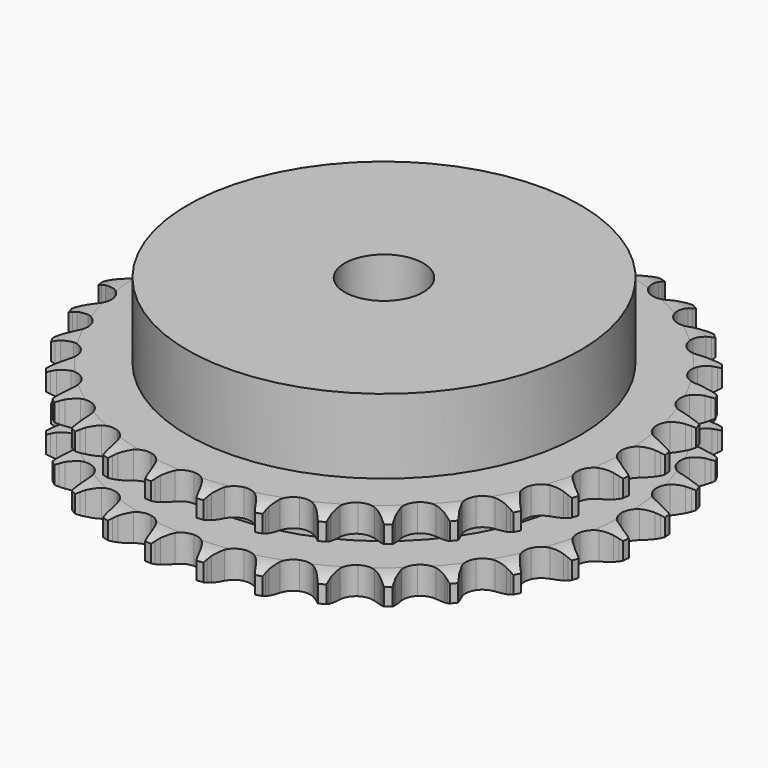
from build123d import *

# Parameters (mm, degrees)
PAD_DEPTH         = 21
SKETCH001_R       = 50
PAD001_DEPTH      = 40
SKETCH002_R       = 10
POCKET_DEPTH      = 0.001
POCKET_DEPTH_BACK = 40.001


with BuildPart() as part:
    # Sprocket → Pad (new body)
    with BuildSketch(Plane.XY):
        with BuildLine():
            ThreePointArc((-6.722983, 68.259588), (-5.947068, 67.220529), (-5.378585, 66.054975))
            Line((-5.378585, 66.054975), (-4.96346, 64.952015))
            ThreePointArc((-4.96346, 64.952015), (-4.305248, 63.520135), (-3.451269, 62.195655))
            ThreePointArc((-3.451269, 62.195655), (-1.929275, 60.925607), (0, 60.470212))
            ThreePointArc((0, 60.470212), (1.929275, 60.925607), (3.451269, 62.195655))
            ThreePointArc((3.451269, 62.195655), (4.305248, 63.520135), (4.96346, 64.952015))
            Line((4.96346, 64.952015), (5.378585, 66.054975))
            ThreePointArc((5.378585, 66.054975), (5.947068, 67.220529), (6.722983, 68.259588))
            ThreePointArc((6.722983, 68.259588), (7.281278, 67.089121), (7.611449, 65.835057))
            Line((7.611449, 65.835057), (7.803421, 64.672304))
            ThreePointArc((7.803421, 64.672304), (8.16964, 63.139526), (8.748816, 61.673892))
            ThreePointArc((8.748816, 61.673892), (9.993791, 60.131322), (11.797153, 59.308294))
            ThreePointArc((11.797153, 59.308294), (13.778201, 59.378556), (15.518725, 60.327274))
            Line((15.518725, 60.327274), (17.539599, 62.735657))
            ThreePointArc((17.539599, 62.735657), (17.837497, 63.244296), (18.161923, 63.736437))
            ThreePointArc((18.161923, 63.736437), (18.946871, 64.76869), (19.910587, 65.63641))
            ThreePointArc((19.910587, 65.63641), (20.229809, 64.379515), (20.30898, 63.085135))
            Line((20.30898, 63.085135), (20.270421, 61.907272))
            ThreePointArc((20.270421, 61.907272), (20.330573, 60.3325), (20.61269, 58.782036))
            ThreePointArc((20.61269, 58.782036), (21.532803, 57.026223), (23.140948, 55.867192))
            ThreePointArc((23.140948, 55.867192), (25.097638, 55.54962), (26.989804, 56.140549))
            Line((26.989804, 56.140549), (29.4417, 58.108403))
            ThreePointArc((29.4417, 58.108403), (29.833104, 58.549151), (30.247309, 58.968544))
            ThreePointArc((30.247309, 58.968544), (31.218557, 59.827827), (32.333039, 60.490862))
            ThreePointArc((32.333039, 60.490862), (32.400919, 59.195841), (32.226048, 57.910886))
            Line((32.226048, 57.910886), (31.95844, 56.763178))
            ThreePointArc((31.95844, 56.763178), (31.710214, 55.206929), (31.684429, 53.63122))
            ThreePointArc((31.684429, 53.63122), (32.24432, 51.729639), (33.59545, 50.279144))
            ThreePointArc((33.59545, 50.279144), (35.452588, 49.585943), (37.42368, 49.796375))
            Line((37.42368, 49.796375), (40.212373, 51.248076))
            ThreePointArc((40.212373, 51.248076), (40.682242, 51.603996), (41.170308, 51.934523))
            ThreePointArc((41.170308, 51.934523), (42.290531, 52.587813), (43.512951, 53.020684))
            ThreePointArc((43.512951, 53.020684), (43.32688, 51.737304), (42.904687, 50.511155))
            Line((42.904687, 50.511155), (42.418314, 49.437707))
            ThreePointArc((42.418314, 49.437707), (41.871248, 47.959788), (41.538553, 46.419386))
            ThreePointArc((41.538553, 46.419386), (41.716706, 44.445114), (42.758897, 42.758897))
            ThreePointArc((42.758897, 42.758897), (44.445114, 41.716706), (46.419386, 41.538553))
            Line((46.419386, 41.538553), (49.437707, 42.418314))
            ThreePointArc((49.437707, 42.418314), (49.967985, 42.675728), (50.511155, 42.904687))
            ThreePointArc((50.511155, 42.904687), (51.737304, 43.32688), (53.020684, 43.512951))
            ThreePointArc((53.020684, 43.512951), (52.587813, 42.290531), (51.934523, 41.170308))
            Line((51.934523, 41.170308), (51.248076, 40.212373))
            ThreePointArc((51.248076, 40.212373), (50.423195, 38.869579), (49.796375, 37.42368))
            ThreePointArc((49.796375, 37.42368), (49.585943, 35.452588), (50.279144, 33.59545))
            ThreePointArc((50.279144, 33.59545), (51.729639, 32.24432), (53.63122, 31.684429))
            Line((53.63122, 31.684429), (56.763178, 31.95844))
            ThreePointArc((56.763178, 31.95844), (57.333485, 32.107455), (57.910886, 32.226048))
            ThreePointArc((57.910886, 32.226048), (59.195841, 32.400919), (60.490862, 32.333039))
            ThreePointArc((60.490862, 32.333039), (59.827827, 31.218557), (58.968544, 30.247309))
            Line((58.968544, 30.247309), (58.108403, 29.4417))
            ThreePointArc((58.108403, 29.4417), (57.037406, 28.285633), (56.140549, 26.989804))
            ThreePointArc((56.140549, 26.989804), (55.54962, 25.097638), (55.867192, 23.140948))
            ThreePointArc((55.867192, 23.140948), (57.026223, 21.532803), (58.782036, 20.61269))
            Line((58.782036, 20.61269), (61.907272, 20.270421))
            ThreePointArc((61.907272, 20.270421), (62.495692, 20.305312), (63.085135, 20.30898))
            ThreePointArc((63.085135, 20.30898), (64.379515, 20.229809), (65.63641, 19.910587))
            ThreePointArc((65.63641, 19.910587), (64.76869, 18.946871), (63.736437, 18.161923))
            Line((63.736437, 18.161923), (62.735657, 17.539599))
            ThreePointArc((62.735657, 17.539599), (61.459701, 16.614687), (60.327274, 15.518725))
            ThreePointArc((60.327274, 15.518725), (59.378556, 13.778201), (59.308294, 11.797153))
            ThreePointArc((59.308294, 11.797153), (60.131322, 9.993791), (61.673892, 8.748816))
            Line((61.673892, 8.748816), (64.672304, 7.803421))
            ThreePointArc((64.672304, 7.803421), (65.256225, 7.722846), (65.835057, 7.611449))
            ThreePointArc((65.835057, 7.611449), (67.089121, 7.281278), (68.259588, 6.722983))
            ThreePointArc((68.259588, 6.722983), (67.220529, 5.947068), (66.054975, 5.378585))
            Line((66.054975, 5.378585), (64.952015, 4.96346))
            ThreePointArc((64.952015, 4.96346), (63.520135, 4.305248), (62.195655, 3.451269))
            ThreePointArc((62.195655, 3.451269), (60.925607, 1.929275), (60.470212, 0))
            ThreePointArc((60.470212, 0), (60.925607, -1.929275), (62.195655, -3.451269))
            Line((62.195655, -3.451269), (64.952015, -4.96346))
            ThreePointArc((64.952015, -4.96346), (65.508997, -5.156404), (66.054975, -5.378585))
            ThreePointArc((66.054975, -5.378585), (67.220529, -5.947068), (68.259588, -6.722983))
            ThreePointArc((68.259588, -6.722983), (67.089121, -7.281278), (65.835057, -7.611449))
            Line((65.835057, -7.611449), (64.672304, -7.803421))
            ThreePointArc((64.672304, -7.803421), (63.139526, -8.16964), (61.673892, -8.748816))
            ThreePointArc((61.673892, -8.748816), (60.131322, -9.993791), (59.308294, -11.797153))
            ThreePointArc((59.308294, -11.797153), (59.378556, -13.778201), (60.327274, -15.518725))
            Line((60.327274, -15.518725), (62.735657, -17.539599))
            ThreePointArc((62.735657, -17.539599), (63.244296, -17.837497), (63.736437, -18.161923))
            ThreePointArc((63.736437, -18.161923), (64.76869, -18.946871), (65.63641, -19.910587))
            ThreePointArc((65.63641, -19.910587), (64.379515, -20.229809), (63.085135, -20.30898))
            Line((63.085135, -20.30898), (61.907272, -20.270421))
            ThreePointArc((61.907272, -20.270421), (60.3325, -20.330573), (58.782036, -20.61269))
            ThreePointArc((58.782036, -20.61269), (57.026223, -21.532803), (55.867192, -23.140948))
            ThreePointArc((55.867192, -23.140948), (55.54962, -25.097638), (56.140549, -26.989804))
            Line((56.140549, -26.989804), (58.108403, -29.4417))
            ThreePointArc((58.108403, -29.4417), (58.549151, -29.833104), (58.968544, -30.247309))
            ThreePointArc((58.968544, -30.247309), (59.827827, -31.218557), (60.490862, -32.333039))
            ThreePointArc((60.490862, -32.333039), (59.195841, -32.400919), (57.910886, -32.226048))
            Line((57.910886, -32.226048), (56.763178, -31.95844))
            ThreePointArc((56.763178, -31.95844), (55.206929, -31.710214), (53.63122, -31.684429))
            ThreePointArc((53.63122, -31.684429), (51.729639, -32.24432), (50.279144, -33.59545))
            ThreePointArc((50.279144, -33.59545), (49.585943, -35.452588), (49.796375, -37.42368))
            Line((49.796375, -37.42368), (51.248076, -40.212373))
            ThreePointArc((51.248076, -40.212373), (51.603996, -40.682242), (51.934523, -41.170308))
            ThreePointArc((51.934523, -41.170308), (52.587813, -42.290531), (53.020684, -43.512951))
            ThreePointArc((53.020684, -43.512951), (51.737304, -43.32688), (50.511155, -42.904687))
            Line((50.511155, -42.904687), (49.437707, -42.418314))
            ThreePointArc((49.437707, -42.418314), (47.959788, -41.871248), (46.419386, -41.538553))
            ThreePointArc((46.419386, -41.538553), (44.445114, -41.716706), (42.758897, -42.758897))
            ThreePointArc((42.758897, -42.758897), (41.716706, -44.445114), (41.538553, -46.419386))
            Line((41.538553, -46.419386), (42.418314, -49.437707))
            ThreePointArc((42.418314, -49.437707), (42.675728, -49.967985), (42.904687, -50.511155))
            ThreePointArc((42.904687, -50.511155), (43.32688, -51.737304), (43.512951, -53.020684))
            ThreePointArc((43.512951, -53.020684), (42.290531, -52.587813), (41.170308, -51.934523))
            Line((41.170308, -51.934523), (40.212373, -51.248076))
            ThreePointArc((40.212373, -51.248076), (38.869579, -50.423195), (37.42368, -49.796375))
            ThreePointArc((37.42368, -49.796375), (35.452588, -49.585943), (33.59545, -50.279144))
            ThreePointArc((33.59545, -50.279144), (32.24432, -51.729639), (31.684429, -53.63122))
            Line((31.684429, -53.63122), (31.95844, -56.763178))
            ThreePointArc((31.95844, -56.763178), (32.107455, -57.333485), (32.226048, -57.910886))
            ThreePointArc((32.226048, -57.910886), (32.400919, -59.195841), (32.333039, -60.490862))
            ThreePointArc((32.333039, -60.490862), (31.218557, -59.827827), (30.247309, -58.968544))
            Line((30.247309, -58.968544), (29.4417, -58.108403))
            ThreePointArc((29.4417, -58.108403), (28.285633, -57.037406), (26.989804, -56.140549))
            ThreePointArc((26.989804, -56.140549), (25.097638, -55.54962), (23.140948, -55.867192))
            ThreePointArc((23.140948, -55.867192), (21.532803, -57.026223), (20.61269, -58.782036))
            Line((20.61269, -58.782036), (20.270421, -61.907272))
            ThreePointArc((20.270421, -61.907272), (20.305312, -62.495692), (20.30898, -63.085135))
            ThreePointArc((20.30898, -63.085135), (20.229809, -64.379515), (19.910587, -65.63641))
            ThreePointArc((19.910587, -65.63641), (18.946871, -64.76869), (18.161923, -63.736437))
            Line((18.161923, -63.736437), (17.539599, -62.735657))
            ThreePointArc((17.539599, -62.735657), (16.614687, -61.459701), (15.518725, -60.327274))
            ThreePointArc((15.518725, -60.327274), (13.778201, -59.378556), (11.797153, -59.308294))
            ThreePointArc((11.797153, -59.308294), (9.993791, -60.131322), (8.748816, -61.673892))
            Line((8.748816, -61.673892), (7.803421, -64.672304))
            ThreePointArc((7.803421, -64.672304), (7.722846, -65.256225), (7.611449, -65.835057))
            ThreePointArc((7.611449, -65.835057), (7.281278, -67.089121), (6.722983, -68.259588))
            ThreePointArc((6.722983, -68.259588), (5.947068, -67.220529), (5.378585, -66.054975))
            Line((5.378585, -66.054975), (4.96346, -64.952015))
            ThreePointArc((4.96346, -64.952015), (4.305248, -63.520135), (3.451269, -62.195655))
            ThreePointArc((3.451269, -62.195655), (1.929275, -60.925607), (0, -60.470212))
            ThreePointArc((0, -60.470212), (-1.929275, -60.925607), (-3.451269, -62.195655))
            Line((-3.451269, -62.195655), (-4.96346, -64.952015))
            ThreePointArc((-4.96346, -64.952015), (-5.156404, -65.508997), (-5.378585, -66.054975))
            ThreePointArc((-5.378585, -66.054975), (-5.947068, -67.220529), (-6.722983, -68.259588))
            ThreePointArc((-6.722983, -68.259588), (-7.281278, -67.089121), (-7.611449, -65.835057))
            Line((-7.611449, -65.835057), (-7.803421, -64.672304))
            ThreePointArc((-7.803421, -64.672304), (-8.16964, -63.139526), (-8.748816, -61.673892))
            ThreePointArc((-8.748816, -61.673892), (-9.993791, -60.131322), (-11.797153, -59.308294))
            ThreePointArc((-11.797153, -59.308294), (-13.778201, -59.378556), (-15.518725, -60.327274))
            Line((-15.518725, -60.327274), (-17.539599, -62.735657))
            ThreePointArc((-17.539599, -62.735657), (-17.837497, -63.244296), (-18.161923, -63.736437))
            ThreePointArc((-18.161923, -63.736437), (-18.946871, -64.76869), (-19.910587, -65.63641))
            ThreePointArc((-19.910587, -65.63641), (-20.229809, -64.379515), (-20.30898, -63.085135))
            Line((-20.30898, -63.085135), (-20.270421, -61.907272))
            ThreePointArc((-20.270421, -61.907272), (-20.330573, -60.3325), (-20.61269, -58.782036))
            ThreePointArc((-20.61269, -58.782036), (-21.532803, -57.026223), (-23.140948, -55.867192))
            ThreePointArc((-23.140948, -55.867192), (-25.097638, -55.54962), (-26.989804, -56.140549))
            Line((-26.989804, -56.140549), (-29.4417, -58.108403))
            ThreePointArc((-29.4417, -58.108403), (-29.833104, -58.549151), (-30.247309, -58.968544))
            ThreePointArc((-30.247309, -58.968544), (-31.218557, -59.827827), (-32.333039, -60.490862))
            ThreePointArc((-32.333039, -60.490862), (-32.400919, -59.195841), (-32.226048, -57.910886))
            Line((-32.226048, -57.910886), (-31.95844, -56.763178))
            ThreePointArc((-31.95844, -56.763178), (-31.710214, -55.206929), (-31.684429, -53.63122))
            ThreePointArc((-31.684429, -53.63122), (-32.24432, -51.729639), (-33.59545, -50.279144))
            ThreePointArc((-33.59545, -50.279144), (-35.452588, -49.585943), (-37.42368, -49.796375))
            Line((-37.42368, -49.796375), (-40.212373, -51.248076))
            ThreePointArc((-40.212373, -51.248076), (-40.682242, -51.603996), (-41.170308, -51.934523))
            ThreePointArc((-41.170308, -51.934523), (-42.290531, -52.587813), (-43.512951, -53.020684))
            ThreePointArc((-43.512951, -53.020684), (-43.32688, -51.737304), (-42.904687, -50.511155))
            Line((-42.904687, -50.511155), (-42.418314, -49.437707))
            ThreePointArc((-42.418314, -49.437707), (-41.871248, -47.959788), (-41.538553, -46.419386))
            ThreePointArc((-41.538553, -46.419386), (-41.716706, -44.445114), (-42.758897, -42.758897))
            ThreePointArc((-42.758897, -42.758897), (-44.445114, -41.716706), (-46.419386, -41.538553))
            Line((-46.419386, -41.538553), (-49.437707, -42.418314))
            ThreePointArc((-49.437707, -42.418314), (-49.967985, -42.675728), (-50.511155, -42.904687))
            ThreePointArc((-50.511155, -42.904687), (-51.737304, -43.32688), (-53.020684, -43.512951))
            ThreePointArc((-53.020684, -43.512951), (-52.587813, -42.290531), (-51.934523, -41.170308))
            Line((-51.934523, -41.170308), (-51.248076, -40.212373))
            ThreePointArc((-51.248076, -40.212373), (-50.423195, -38.869579), (-49.796375, -37.42368))
            ThreePointArc((-49.796375, -37.42368), (-49.585943, -35.452588), (-50.279144, -33.59545))
            ThreePointArc((-50.279144, -33.59545), (-51.729639, -32.24432), (-53.63122, -31.684429))
            Line((-53.63122, -31.684429), (-56.763178, -31.95844))
            ThreePointArc((-56.763178, -31.95844), (-57.333485, -32.107455), (-57.910886, -32.226048))
            ThreePointArc((-57.910886, -32.226048), (-59.195841, -32.400919), (-60.490862, -32.333039))
            ThreePointArc((-60.490862, -32.333039), (-59.827827, -31.218557), (-58.968544, -30.247309))
            Line((-58.968544, -30.247309), (-58.108403, -29.4417))
            ThreePointArc((-58.108403, -29.4417), (-57.037406, -28.285633), (-56.140549, -26.989804))
            ThreePointArc((-56.140549, -26.989804), (-55.54962, -25.097638), (-55.867192, -23.140948))
            ThreePointArc((-55.867192, -23.140948), (-57.026223, -21.532803), (-58.782036, -20.61269))
            Line((-58.782036, -20.61269), (-61.907272, -20.270421))
            ThreePointArc((-61.907272, -20.270421), (-62.495692, -20.305312), (-63.085135, -20.30898))
            ThreePointArc((-63.085135, -20.30898), (-64.379515, -20.229809), (-65.63641, -19.910587))
            ThreePointArc((-65.63641, -19.910587), (-64.76869, -18.946871), (-63.736437, -18.161923))
            Line((-63.736437, -18.161923), (-62.735657, -17.539599))
            ThreePointArc((-62.735657, -17.539599), (-61.459701, -16.614687), (-60.327274, -15.518725))
            ThreePointArc((-60.327274, -15.518725), (-59.378556, -13.778201), (-59.308294, -11.797153))
            ThreePointArc((-59.308294, -11.797153), (-60.131322, -9.993791), (-61.673892, -8.748816))
            Line((-61.673892, -8.748816), (-64.672304, -7.803421))
            ThreePointArc((-64.672304, -7.803421), (-65.256225, -7.722846), (-65.835057, -7.611449))
            ThreePointArc((-65.835057, -7.611449), (-67.089121, -7.281278), (-68.259588, -6.722983))
            ThreePointArc((-68.259588, -6.722983), (-67.220529, -5.947068), (-66.054975, -5.378585))
            Line((-66.054975, -5.378585), (-64.952015, -4.96346))
            ThreePointArc((-64.952015, -4.96346), (-63.520135, -4.305248), (-62.195655, -3.451269))
            ThreePointArc((-62.195655, -3.451269), (-60.925607, -1.929275), (-60.470212, 0))
            ThreePointArc((-60.470212, 0), (-60.925607, 1.929275), (-62.195655, 3.451269))
            Line((-62.195655, 3.451269), (-64.952015, 4.96346))
            ThreePointArc((-64.952015, 4.96346), (-65.508997, 5.156404), (-66.054975, 5.378585))
            ThreePointArc((-66.054975, 5.378585), (-67.220529, 5.947068), (-68.259588, 6.722983))
            ThreePointArc((-68.259588, 6.722983), (-67.089121, 7.281278), (-65.835057, 7.611449))
            Line((-65.835057, 7.611449), (-64.672304, 7.803421))
            ThreePointArc((-64.672304, 7.803421), (-63.139526, 8.16964), (-61.673892, 8.748816))
            ThreePointArc((-61.673892, 8.748816), (-60.131322, 9.993791), (-59.308294, 11.797153))
            ThreePointArc((-59.308294, 11.797153), (-59.378556, 13.778201), (-60.327274, 15.518725))
            Line((-60.327274, 15.518725), (-62.735657, 17.539599))
            ThreePointArc((-62.735657, 17.539599), (-63.244296, 17.837497), (-63.736437, 18.161923))
            ThreePointArc((-63.736437, 18.161923), (-64.76869, 18.946871), (-65.63641, 19.910587))
            ThreePointArc((-65.63641, 19.910587), (-64.379515, 20.229809), (-63.085135, 20.30898))
            Line((-63.085135, 20.30898), (-61.907272, 20.270421))
            ThreePointArc((-61.907272, 20.270421), (-60.3325, 20.330573), (-58.782036, 20.61269))
            ThreePointArc((-58.782036, 20.61269), (-57.026223, 21.532803), (-55.867192, 23.140948))
            ThreePointArc((-55.867192, 23.140948), (-55.54962, 25.097638), (-56.140549, 26.989804))
            Line((-56.140549, 26.989804), (-58.108403, 29.4417))
            ThreePointArc((-58.108403, 29.4417), (-58.549151, 29.833104), (-58.968544, 30.247309))
            ThreePointArc((-58.968544, 30.247309), (-59.827827, 31.218557), (-60.490862, 32.333039))
            ThreePointArc((-60.490862, 32.333039), (-59.195841, 32.400919), (-57.910886, 32.226048))
            Line((-57.910886, 32.226048), (-56.763178, 31.95844))
            ThreePointArc((-56.763178, 31.95844), (-55.206929, 31.710214), (-53.63122, 31.684429))
            ThreePointArc((-53.63122, 31.684429), (-51.729639, 32.24432), (-50.279144, 33.59545))
            ThreePointArc((-50.279144, 33.59545), (-49.585943, 35.452588), (-49.796375, 37.42368))
            Line((-49.796375, 37.42368), (-51.248076, 40.212373))
            ThreePointArc((-51.248076, 40.212373), (-51.603996, 40.682242), (-51.934523, 41.170308))
            ThreePointArc((-51.934523, 41.170308), (-52.587813, 42.290531), (-53.020684, 43.512951))
            ThreePointArc((-53.020684, 43.512951), (-51.737304, 43.32688), (-50.511155, 42.904687))
            Line((-50.511155, 42.904687), (-49.437707, 42.418314))
            ThreePointArc((-49.437707, 42.418314), (-47.959788, 41.871248), (-46.419386, 41.538553))
            ThreePointArc((-46.419386, 41.538553), (-44.445114, 41.716706), (-42.758897, 42.758897))
            ThreePointArc((-42.758897, 42.758897), (-41.716706, 44.445114), (-41.538553, 46.419386))
            Line((-41.538553, 46.419386), (-42.418314, 49.437707))
            ThreePointArc((-42.418314, 49.437707), (-42.675728, 49.967985), (-42.904687, 50.511155))
            ThreePointArc((-42.904687, 50.511155), (-43.32688, 51.737304), (-43.512951, 53.020684))
            ThreePointArc((-43.512951, 53.020684), (-42.290531, 52.587813), (-41.170308, 51.934523))
            Line((-41.170308, 51.934523), (-40.212373, 51.248076))
            ThreePointArc((-40.212373, 51.248076), (-38.869579, 50.423195), (-37.42368, 49.796375))
            ThreePointArc((-37.42368, 49.796375), (-35.452588, 49.585943), (-33.59545, 50.279144))
            ThreePointArc((-33.59545, 50.279144), (-32.24432, 51.729639), (-31.684429, 53.63122))
            Line((-31.684429, 53.63122), (-31.95844, 56.763178))
            ThreePointArc((-31.95844, 56.763178), (-32.107455, 57.333485), (-32.226048, 57.910886))
            ThreePointArc((-32.226048, 57.910886), (-32.400919, 59.195841), (-32.333039, 60.490862))
            ThreePointArc((-32.333039, 60.490862), (-31.218557, 59.827827), (-30.247309, 58.968544))
            Line((-30.247309, 58.968544), (-29.4417, 58.108403))
            ThreePointArc((-29.4417, 58.108403), (-28.285633, 57.037406), (-26.989804, 56.140549))
            ThreePointArc((-26.989804, 56.140549), (-25.097638, 55.54962), (-23.140948, 55.867192))
            ThreePointArc((-23.140948, 55.867192), (-21.532803, 57.026223), (-20.61269, 58.782036))
            Line((-20.61269, 58.782036), (-20.270421, 61.907272))
            ThreePointArc((-20.270421, 61.907272), (-20.305312, 62.495692), (-20.30898, 63.085135))
            ThreePointArc((-20.30898, 63.085135), (-20.229809, 64.379515), (-19.910587, 65.63641))
            ThreePointArc((-19.910587, 65.63641), (-18.946871, 64.76869), (-18.161923, 63.736437))
            Line((-18.161923, 63.736437), (-17.539599, 62.735657))
            ThreePointArc((-17.539599, 62.735657), (-16.614687, 61.459701), (-15.518725, 60.327274))
            ThreePointArc((-15.518725, 60.327274), (-13.778201, 59.378556), (-11.797153, 59.308294))
            ThreePointArc((-11.797153, 59.308294), (-9.993791, 60.131322), (-8.748816, 61.673892))
            Line((-8.748816, 61.673892), (-7.803421, 64.672304))
            ThreePointArc((-7.803421, 64.672304), (-7.722846, 65.256225), (-7.611449, 65.835057))
            ThreePointArc((-7.611449, 65.835057), (-7.281278, 67.089121), (-6.722983, 68.259588))
        make_face()
    extrude(amount=PAD_DEPTH)

    # Sketch → Groove (revolve, cut)
    with BuildSketch(Plane.XZ):
        with BuildLine():
            ThreePointArc((61.483431, 0), (64.39032, 0.329167), (67.15, 1.3))
            Line((67.15, 1.3), (67.15, 5.7))
            ThreePointArc((67.15, 5.7), (64.39032, 6.670833), (61.483431, 7))
            Line((50, 7), (61.483431, 7))
            Line((50, 14), (50, 7))
            Line((61.483431, 14), (50, 14))
            ThreePointArc((61.483431, 14), (64.39032, 14.329167), (67.15, 15.3))
            Line((67.15, 15.3), (67.15, 19.7))
            ThreePointArc((67.15, 19.7), (64.39032, 20.670833), (61.483431, 21))
            Line((61.483431, 21), (71.483431, 21))
            Line((71.483431, 21), (71.483431, 0))
            Line((61.483431, 0), (71.483431, 0))
        make_face()
    revolve(axis=Axis((0, 0, 0), (0, 0, 1)), mode=Mode.SUBTRACT)

    # Sketch001 → Pad001 (join)
    with BuildSketch(Plane.XY):
        Circle(SKETCH001_R)
    extrude(amount=PAD001_DEPTH)

    # Sketch002 → Pocket (cut, two sides)
    with BuildSketch(Plane.XY) as pocket_sk:
        Circle(SKETCH002_R)
    extrude(amount=-POCKET_DEPTH, mode=Mode.SUBTRACT)
    extrude(pocket_sk.sketch, amount=POCKET_DEPTH_BACK, mode=Mode.SUBTRACT)


solid = part.part
